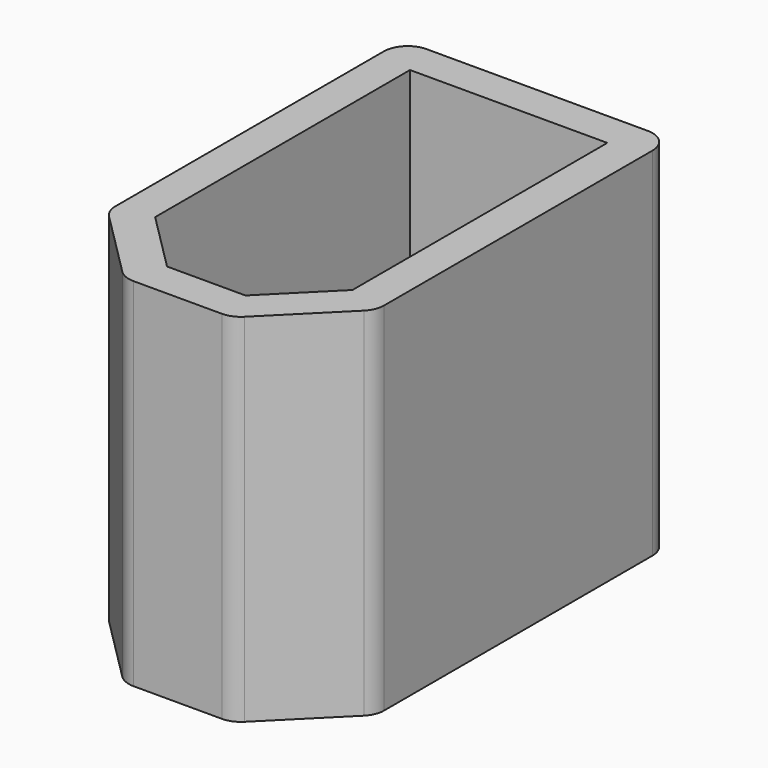
from build123d import *

# Parameters (mm, degrees)
F1_DEPTH = 15
F2_R     = 1


with BuildPart() as f1:
    # F0 (on Top) → F1 (new body)
    with BuildSketch(Plane.XY):
        Polygon((5.65, -6.02132), (5.65, 9.5), (-5.65, 9.5), (-5.65, -6.02132), (-2.27132, -9.4), (2.27132, -9.4), align=None)
        Polygon((-4.15, 8), (4.15, 8), (4.15, -5.4), (1.65, -7.9), (-1.65, -7.9), (-4.15, -5.4), align=None, mode=Mode.SUBTRACT)
    extrude(amount=F1_DEPTH)

    # F2
    f2_edges = [f1.edges().sort_by_distance(p)[0] for p in [
        (-5.65, 9.5, 7.5),
        (5.65, 9.5, 7.5),
        (5.65, -6.02132, 7.5),
        (2.27132, -9.4, 7.5),
        (-2.27132, -9.4, 7.5),
        (-5.65, -6.02132, 7.5),
    ]]
    fillet(f2_edges, radius=F2_R)


solid = f1.part
